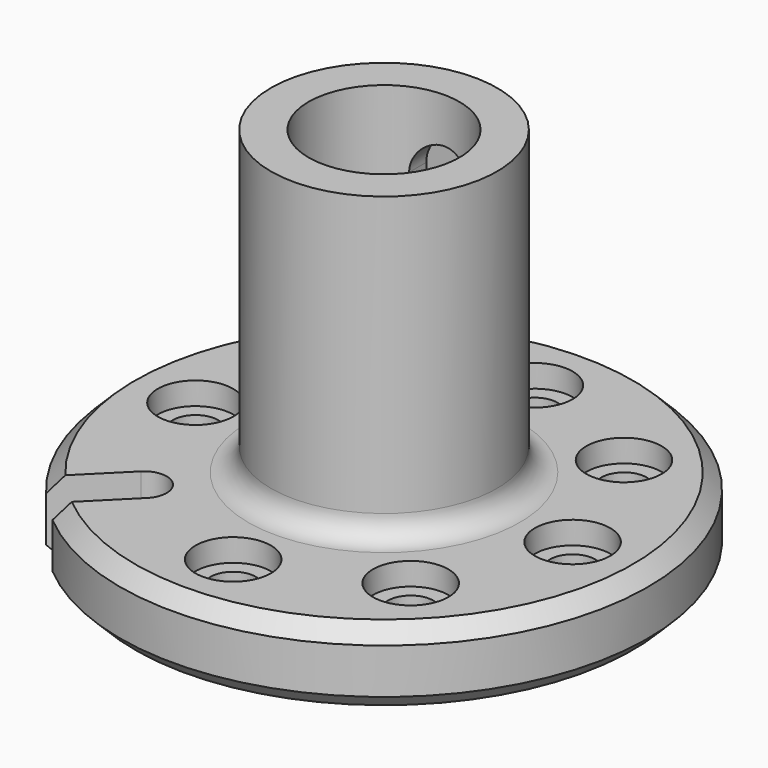
from build123d import *

# Parameters (mm, degrees)
F3_D           = 6
F3_CBORE_D     = 10
F3_CBORE_DEPTH = 3
F4_DEPTH       = 10.001
F6_DEPTH       = 12
F7_R           = 3
F8_SIZE        = 2


with BuildPart() as f1:
    # F0 (on Front) → F1 (revolve)
    with BuildSketch(Plane.XZ):
        Polygon((-35, 0), (-10, 0), (-10, 50), (-15, 50), (-15, 10), (-35, 10), align=None)
    revolve(axis=Axis((0, 0, 25), (0, 0, -1)))

    # F3 (through all)
    with Locations(Plane.XY.offset(10)):
        with Locations((-17.67767, 17.67767), (0, 25), (17.67767, 17.67767), (25, 0), (0, -25), (-25, 0), (17.67767, -17.67767)):
            CounterBoreHole(F3_D / 2, F3_CBORE_D / 2, F3_CBORE_DEPTH)

    # F2 (on face) → F4 (cut, through all)
    with BuildSketch(Plane.XY.offset(10)):
        with BuildLine():
            ThreePointArc((-15.556349, -19.79899), (-19.79899, -19.79899), (-19.79899, -15.556349))
            Line((-19.79899, -15.556349), (-26.778976, -22.536336))
            ThreePointArc((-26.778976, -22.536336), (-24.748737, -24.748737), (-22.536336, -26.778976))
            Line((-22.536336, -26.778976), (-15.556349, -19.79899))
        make_face()
        with BuildLine():
            ThreePointArc((-15.556349, -19.79899), (-14.906031, -18.82572), (-14.67767, -17.67767))
            ThreePointArc((-14.67767, -17.67767), (-16.529619, -14.906031), (-19.79899, -15.556349))
            ThreePointArc((-19.79899, -15.556349), (-19.79899, -19.79899), (-15.556349, -19.79899))
        make_face()
    extrude(amount=-F4_DEPTH, mode=Mode.SUBTRACT)

    # F5 (on Front) → F6 (cut)
    with BuildSketch(Plane.XZ):
        with BuildLine():
            ThreePointArc((-4, 40), (0, 36), (4, 40))
            ThreePointArc((4, 40), (0, 44), (-4, 40))
        make_face()
        with BuildLine():
            Line((4, 23), (4, 40))
            ThreePointArc((4, 40), (0, 36), (-4, 40))
            Line((-4, 40), (-4, 23))
            ThreePointArc((-4, 23), (0, 27), (4, 23))
        make_face()
        with BuildLine():
            ThreePointArc((-4, 23), (0, 19), (4, 23))
            ThreePointArc((4, 23), (0, 27), (-4, 23))
        make_face()
    extrude(amount=-F6_DEPTH, mode=Mode.SUBTRACT)

    # F7
    f7_edges = [f1.edges().sort_by_distance(p)[0] for p in [
        (15, 0, 10),
    ]]
    fillet(f7_edges, radius=F7_R)

    # F8
    f8_edges = [f1.edges().sort_by_distance(p)[0] for p in [
        (24.748737, 24.748737, 10),
        (24.748737, 24.748737, 0),
    ]]
    chamfer(f8_edges, length=F8_SIZE)


solid = f1.part
